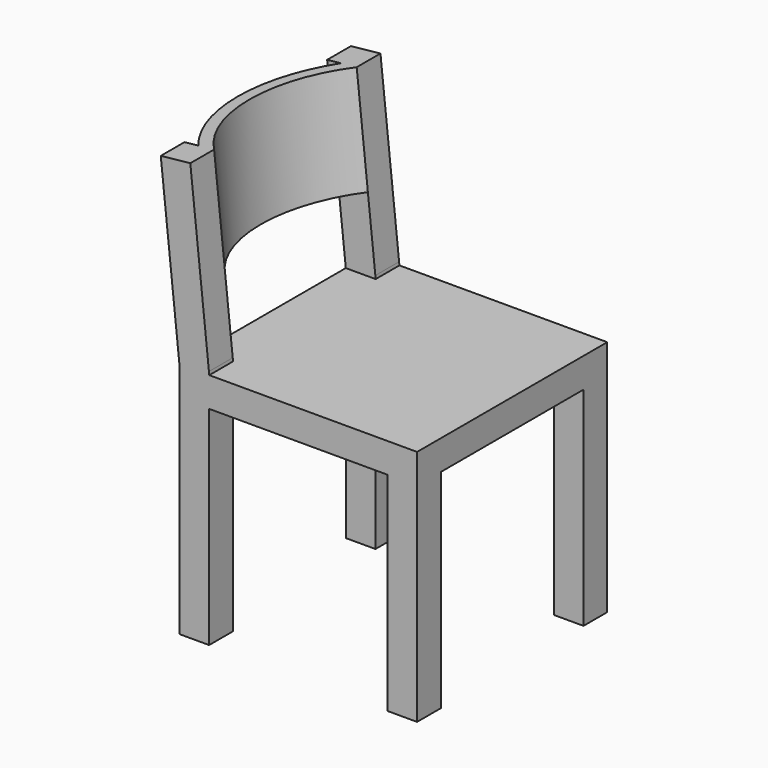
from build123d import *

# Parameters (mm, degrees)
F0_W      = 400
F0_H      = 400
F1_DEPTH  = 400
F2_W      = 300
F2_H      = 350
F3_DEPTH  = 400.001
F4_W      = 300
F4_H      = 350
F5_DEPTH  = 400.001
F10_W     = 400
F10_H     = 300
F11_DEPTH = 50
F12_W     = 300
F12_H     = 300
F13_DEPTH = 122.9991389297
F15_DEPTH = 50
F17_DEPTH = 50
F19_DEPTH = 180


with BuildPart() as f1:
    # F0 (on Top) → F1 (new body)
    with BuildSketch(Plane.XY):
        Rectangle(F0_W, F0_H)
    extrude(amount=F1_DEPTH)

    # F2 (on face) → F3 (cut, through all)
    with BuildSketch(Plane.XZ.offset(200)):
        with Locations((0, 175)):
            Rectangle(F2_W, F2_H)
    extrude(amount=-F3_DEPTH, mode=Mode.SUBTRACT)

    # F4 (on face) → F5 (cut, through all)
    with BuildSketch(Plane.YZ.offset(200)):
        with Locations((0, 175)):
            Rectangle(F4_W, F4_H)
    extrude(amount=-F5_DEPTH, mode=Mode.SUBTRACT)



with BuildPart() as f11:
    # F10 (on line) → F11 (new body)
    with BuildSketch(Plane(origin=(-156.2324219098, 0, -16.4206892285), x_dir=(0, -1, 0), z_dir=(-0.9945218954, 0, -0.1045284633))):
        with Locations((0, 568.7144508008)):
            Rectangle(F10_W, F10_H)
    extrude(amount=-F11_DEPTH)

    # F12 (on face) → F13 (cut, through all)
    with BuildSketch(Plane(origin=(-106.5063271414, 0, -11.1942660652), x_dir=(0, 1, 0), z_dir=(0.9945218954, 0, 0.1045284633))):
        with Locations((0, 568.7144508008)):
            Rectangle(F12_W, F12_H)
    extrude(amount=-F13_DEPTH, mode=Mode.SUBTRACT)


with BuildPart() as f1_1:
    add(f1.part)

    add(f11.part)  # F15 merges F11
    # F14 (on face) → F15 (join)
    with BuildSketch(Plane(origin=(0, 200, 0), x_dir=(-1, 0, 0), z_dir=(0, 1, 0))):
        Polygon((149.7245860218, 400), (200, 400), (150.2739052316, 405.2264231634), align=None)
    extrude(amount=-F15_DEPTH)

    # F16 (on face) → F17 (join)
    with BuildSketch(Plane.XZ.offset(200)):
        Polygon((-150.2739052316, 405.2264231634), (-200, 400), (-149.7245860218, 400), align=None)
    extrude(amount=-F17_DEPTH)

    # F18 (on face) → F19 (join)
    with BuildSketch(Plane(origin=(-75.1261170705, 0, 714.777257839), x_dir=(0.9945218954, 0, 0.1045284633), z_dir=(-0.1045284633, 0, 0.9945218954))):
        with BuildLine():
            ThreePointArc((-107.0929937666, -150), (-167.7233901133, 0), (-107.0929937666, 150))
            Line((-107.0929937666, 150), (-133.8813907821, 150))
            ThreePointArc((-133.8813907821, 150), (-187.7233901133, 0), (-133.8813907821, -150))
            Line((-133.8813907821, -150), (-107.0929937666, -150))
        make_face()
    extrude(amount=-F19_DEPTH)


solid = f1_1.part
